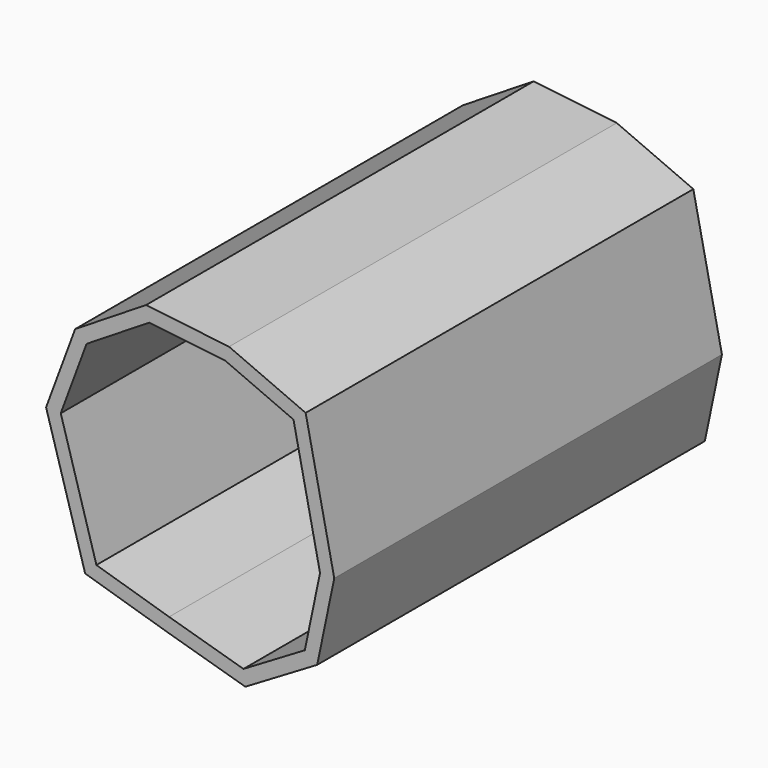
from build123d import *

# Parameters (mm, degrees)
F1_DEPTH = 870
F2_T     = -25


with BuildPart() as f1:
    # F0 (on Front) → F1 (new body)
    with BuildSketch(Plane.XZ):
        Polygon((315.272604, -122.337317), (263.946945, 122.337317), (126.402124, 182.182302), (-22.584686, 199.587198), (-149.872822, 120.228958), (-202.089188, -20.389146), (-131.931266, -260.343029), (11.636889, -303.796281), (155.66179, -345.710812), (284.671261, -269.18267), align=None)
    extrude(amount=F1_DEPTH)

    # F2
    f2_openings = [f1.faces().sort_by_distance(p)[0] for p in [
        (64.144057, -870, -68.345296),
    ]]
    offset(amount=F2_T, openings=f2_openings)


solid = f1.part
